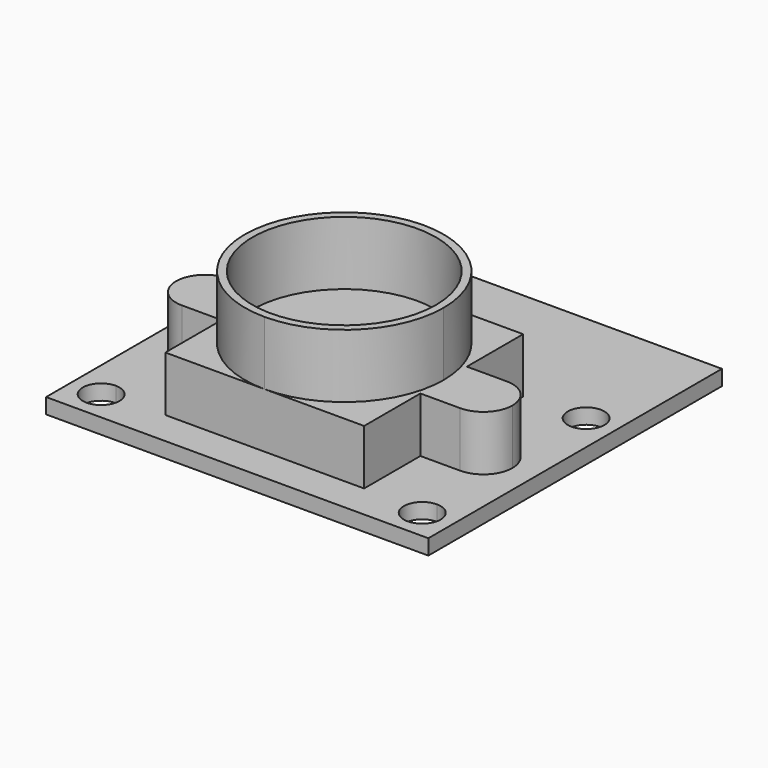
from build123d import *

# Parameters (mm, degrees)
F0_W     = 25
F0_H     = 24
F1_DEPTH = 1
F3_DEPTH = 3.6
F4_R     = 6
F5_DEPTH = 4.16


with BuildPart() as f1:
    # F0 (on Top) → F1 (new body)
    with BuildSketch(Plane.XY):
        Rectangle(F0_W, F0_H)
        with BuildLine():
            ThreePointArc((-9.3, -10), (-11.348528, -10.848528), (-10.5, -8.8))
            ThreePointArc((-10.5, -8.8), (-9.651472, -9.151472), (-9.3, -10))
        make_face(mode=Mode.SUBTRACT)
        with BuildLine():
            ThreePointArc((10.5, -8.8), (11.348528, -9.151472), (11.7, -10))
            ThreePointArc((11.7, -10), (9.651472, -10.848528), (10.5, -8.8))
        make_face(mode=Mode.SUBTRACT)
        with BuildLine():
            ThreePointArc((-10.5, 2.2), (-11.348528, 4.248528), (-9.3, 3.4))
            ThreePointArc((-9.3, 3.4), (-9.651472, 2.551472), (-10.5, 2.2))
        make_face(mode=Mode.SUBTRACT)
        with BuildLine():
            ThreePointArc((11.7, 3.4), (11.348528, 2.551472), (10.5, 2.2))
            ThreePointArc((10.5, 2.2), (9.651472, 4.248528), (11.7, 3.4))
        make_face(mode=Mode.SUBTRACT)
    extrude(amount=F1_DEPTH)

    # F2 (on face) → F3 (join)
    with BuildSketch(Plane.XY.offset(1)):
        Polygon((6.5, 3.25), (-6.5, 3.25), (-6.5, -1.35), (-6.5, -5.15), (-6.5, -9.75), (6.5, -9.75), (6.5, -5.15), (6.5, -1.35), align=None)
        with BuildLine():
            Line((-6.5, -5.15), (-6.5, -1.35))
            Line((-6.5, -1.35), (-9.1, -1.35))
            ThreePointArc((-9.1, -1.35), (-7.756497, -1.906497), (-7.2, -3.25))
            ThreePointArc((-7.2, -3.25), (-7.756497, -4.593503), (-9.1, -5.15))
            Line((-9.1, -5.15), (-6.5, -5.15))
        make_face()
        with BuildLine():
            ThreePointArc((-7.2, -3.25), (-7.756497, -1.906497), (-9.1, -1.35))
            ThreePointArc((-9.1, -1.35), (-11, -3.25), (-9.1, -5.15))
            ThreePointArc((-9.1, -5.15), (-7.756497, -4.593503), (-7.2, -3.25))
        make_face()
        with BuildLine():
            Line((9.1, -1.35), (6.5, -1.35))
            Line((6.5, -1.35), (6.5, -5.15))
            Line((6.5, -5.15), (9.1, -5.15))
            ThreePointArc((9.1, -5.15), (7.2, -3.25), (9.1, -1.35))
        make_face()
        with BuildLine():
            ThreePointArc((11, -3.25), (10.443503, -1.906497), (9.1, -1.35))
            ThreePointArc((9.1, -1.35), (7.2, -3.25), (9.1, -5.15))
            ThreePointArc((9.1, -5.15), (10.443503, -4.593503), (11, -3.25))
        make_face()
    extrude(amount=F3_DEPTH)

    # F4 (on face) → F5 (join)
    with BuildSketch(Plane.XY.offset(4.6)):
        with BuildLine():
            ThreePointArc((0, -9.75), (4.596194, -7.846194), (6.5, -3.25))
            ThreePointArc((6.5, -3.25), (4.596194, 1.346194), (0, 3.25))
            ThreePointArc((0, 3.25), (-6.5, -3.25), (0, -9.75))
        make_face()
        with Locations((0, -3.25)):
            Circle(F4_R, mode=Mode.SUBTRACT)
    extrude(amount=F5_DEPTH)


solid = f1.part
